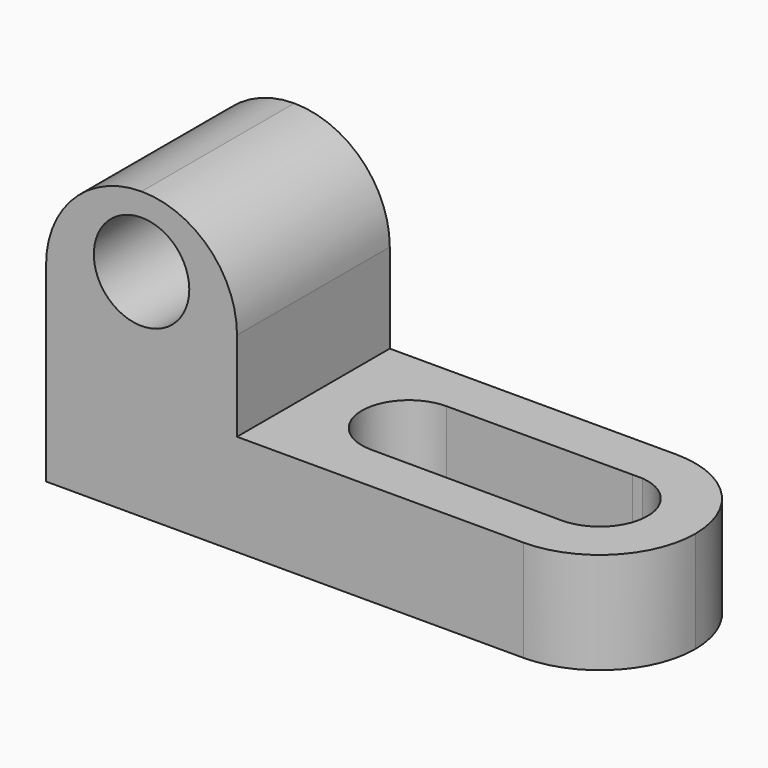
from build123d import *

# Parameters (mm, degrees)
F0_W      = 76.2
F0_H      = 38.1
F1_DEPTH  = 25.4
F2_W      = 50.8
F2_H      = 24.5972746
F3_DEPTH  = 25.4
F4_R      = 6.35
F5_DEPTH  = 25.4
F7_DEPTH  = 25.4
F9_DEPTH  = 25.4
F11_DEPTH = 25.4


with BuildPart() as f1:
    # F0 (on Front) → F1 (new body)
    with BuildSketch(Plane.XZ):
        with Locations((38.1, 19.05)):
            Rectangle(F0_W, F0_H)
    extrude(amount=F1_DEPTH)

    # F2 (on face) → F3 (cut)
    with BuildSketch(Plane.XZ.offset(25.4)):
        with Locations((50.8, 25.8013627)):
            Rectangle(F2_W, F2_H)
    extrude(amount=-F3_DEPTH, mode=Mode.SUBTRACT)

    # F4 (on face) → F5 (cut)
    with BuildSketch(Plane.XZ.offset(25.4)):
        with Locations((12.7, 28.6956075579)):
            Circle(F4_R)
    extrude(amount=-F5_DEPTH, mode=Mode.SUBTRACT)

    # F6 (on face) → F7 (cut)
    with BuildSketch(Plane.XZ.offset(25.4)):
        with BuildLine():
            ThreePointArc((0, 25.4), (3.7197438789, 34.3802561211), (12.7, 38.1))
            Line((12.7, 38.1), (0, 38.1))
            Line((0, 38.1), (0, 25.4))
        make_face()
        with BuildLine():
            ThreePointArc((12.7, 38.1), (21.6802561211, 34.3802561211), (25.4, 25.4))
            Line((25.4, 25.4), (25.4, 38.1))
            Line((25.4, 38.1), (12.7, 38.1))
        make_face()
    extrude(amount=-F7_DEPTH, mode=Mode.SUBTRACT)

    # F8 (on face) → F9 (cut)
    with BuildSketch(Plane.XY.offset(13.5027254)):
        with BuildLine():
            ThreePointArc((63.5, 0), (72.4802561211, -3.7197438789), (76.2, -12.7))
            Line((76.2, -12.7), (76.2, 0))
            Line((76.2, 0), (63.5, 0))
        make_face()
        with BuildLine():
            ThreePointArc((76.2, -12.7), (72.4802561211, -21.6802561211), (63.5, -25.4))
            Line((63.5, -25.4), (76.2, -25.4))
            Line((76.2, -25.4), (76.2, -12.7))
        make_face()
    extrude(amount=-F9_DEPTH, mode=Mode.SUBTRACT)

    # F10 (on face) → F11 (cut)
    with BuildSketch(Plane.XY.offset(13.5027254)):
        with BuildLine():
            ThreePointArc((63.480662017, -19.0383808314), (67.9750906946, -17.1887647294), (69.8384103307, -12.7))
            ThreePointArc((69.8384103307, -12.7), (68.2043841634, -8.4521517018), (64.1448012955, -6.3944725193))
            Line((64.1448012955, -6.3944725193), (62.8336159646, -6.3967169))
            ThreePointArc((62.8336159646, -6.3967169), (57.1698759562, -13.0239986283), (63.480662017, -19.0383808314))
        make_face()
        with BuildLine():
            Line((38.1, -18.9609461011), (63.480662017, -19.0383808314))
            ThreePointArc((63.480662017, -19.0383808314), (57.1698759562, -13.0239986283), (62.8336159646, -6.3967169))
            Line((62.8336159646, -6.3967169), (38.1, -6.4390538989))
            ThreePointArc((38.1, -6.4390538989), (42.534090263, -8.269048665), (44.3716722533, -12.7))
            ThreePointArc((44.3716722533, -12.7), (42.534090263, -17.130951335), (38.1, -18.9609461011))
        make_face()
        with BuildLine():
            ThreePointArc((38.1, -6.4390538989), (31.8497617067, -12.7), (38.1, -18.9609461011))
            ThreePointArc((38.1, -18.9609461011), (42.534090263, -17.130951335), (44.3716722533, -12.7))
            ThreePointArc((44.3716722533, -12.7), (42.534090263, -8.269048665), (38.1, -6.4390538989))
        make_face()
    extrude(amount=-F11_DEPTH, mode=Mode.SUBTRACT)


solid = f1.part
